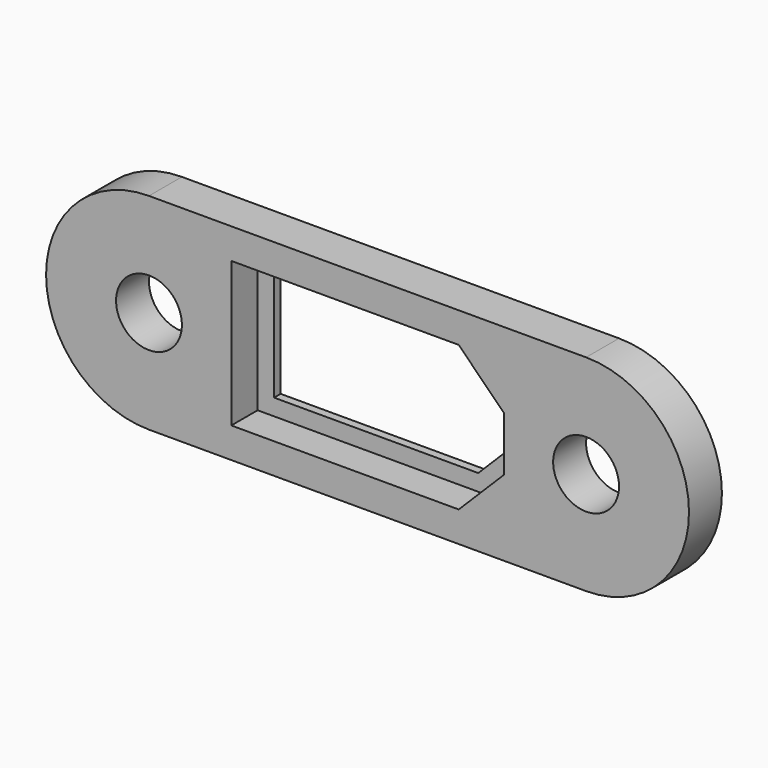
from build123d import *

# Parameters (mm, degrees)
F0_R     = 2
F1_DEPTH = 0.5
F2_R     = 2
F3_DEPTH = 2


with BuildPart() as f1:
    # F0 (on Front) → F1 (new body)
    with BuildSketch(Plane.XZ):
        with BuildLine():
            Line((20.55, 9.65), (-6, 9.65))
            ThreePointArc((-6, 9.65), (-12.25, 3.4), (-6, -2.85))
            Line((-6, -2.85), (20.55, -2.85))
            ThreePointArc((20.55, -2.85), (26.8, 3.4), (20.55, 9.65))
        make_face()
        with Locations((-6, 3.4)):
            Circle(F0_R, mode=Mode.SUBTRACT)
        Polygon((12.4, 0), (0, 0), (0, 6.8), (12.4, 6.8), (14.55, 4.65), (14.55, 2.15), align=None, mode=Mode.SUBTRACT)
        with Locations((20.55, 3.4)):
            Circle(F0_R, mode=Mode.SUBTRACT)
    extrude(amount=F1_DEPTH)

    # F2 (on face) → F3 (join)
    with BuildSketch(Plane.XZ.offset(0.5)):
        with BuildLine():
            ThreePointArc((20.55, -2.85), (26.8, 3.4), (20.55, 9.65))
            Line((20.55, 9.65), (-6, 9.65))
            ThreePointArc((-6, 9.65), (-12.25, 3.4), (-6, -2.85))
            Line((-6, -2.85), (20.55, -2.85))
        make_face()
        with Locations((-6, 3.4)):
            Circle(F2_R, mode=Mode.SUBTRACT)
        Polygon((12.8142135624, 7.8), (15.55, 5.0642135624), (15.55, 1.7357864376), (12.8142135624, -1), (-1, -1), (-1, 7.8), align=None, mode=Mode.SUBTRACT)
        with Locations((20.55, 3.4)):
            Circle(F2_R, mode=Mode.SUBTRACT)
    extrude(amount=F3_DEPTH)


solid = f1.part
